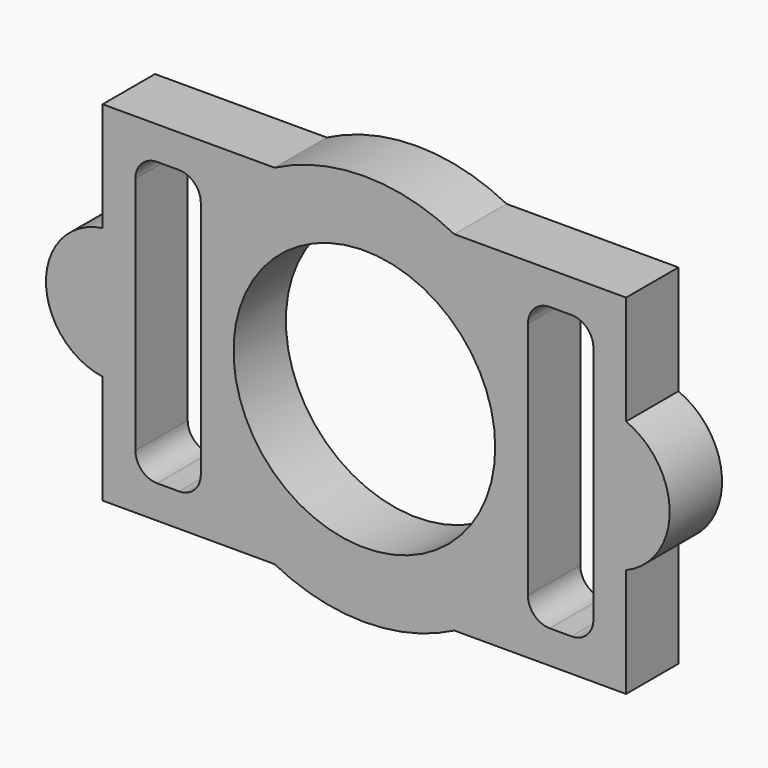
from build123d import *

# Parameters (mm, degrees)
F0_R     = 60
F1_DEPTH = 30


with BuildPart() as f1:
    # F0 (on Front) → F1 (new body)
    with BuildSketch(Plane.XZ):
        with BuildLine():
            Line((-23.376703, 94.018714), (-93.376703, 94.018714))
            Line((-93.376703, 94.018714), (-93.376703, 44.018714))
            ThreePointArc((-93.376703, 44.018714), (-119.373909, 14.018714), (-93.376703, -15.981286))
            Line((-93.376703, -15.981286), (-93.376703, -65.981286))
            Line((-93.376703, -65.981286), (-23.376703, -65.981286))
            Line((-23.376703, -65.981286), (-14.60776, -65.981286))
            ThreePointArc((-14.60776, -65.981286), (26.623297, -75.981286), (67.854353, -65.981286))
            Line((67.854353, -65.981286), (76.623297, -65.981286))
            Line((76.623297, -65.981286), (146.623297, -65.981286))
            Line((146.623297, -65.981286), (146.623297, -15.981286))
            ThreePointArc((146.623297, -15.981286), (166.623297, 14.018714), (146.623297, 44.018714))
            Line((146.623297, 44.018714), (146.623297, 94.018714))
            Line((146.623297, 94.018714), (76.623297, 94.018714))
            Line((76.623297, 94.018714), (67.854353, 94.018714))
            ThreePointArc((67.854353, 94.018714), (26.623297, 104.018714), (-14.60776, 94.018714))
            Line((-14.60776, 94.018714), (-23.376703, 94.018714))
        make_face()
        with BuildLine():
            ThreePointArc((-78.376703, 68.858823), (-75.447771, 75.92989), (-68.376703, 78.858823))
            Line((-68.376703, 78.858823), (-58.376703, 78.858823))
            ThreePointArc((-58.376703, 78.858823), (-51.305635, 75.92989), (-48.376703, 68.858823))
            Line((-48.376703, 68.858823), (-48.376703, -40.861128))
            ThreePointArc((-48.376703, -40.861128), (-51.305635, -47.932195), (-58.376703, -50.861128))
            Line((-58.376703, -50.861128), (-68.376703, -50.861128))
            ThreePointArc((-68.376703, -50.861128), (-75.447771, -47.932195), (-78.376703, -40.861128))
            Line((-78.376703, -40.861128), (-78.376703, 68.858823))
        make_face(mode=Mode.SUBTRACT)
        with BuildLine():
            ThreePointArc((101.623297, 68.858823), (104.552229, 75.92989), (111.623297, 78.858823))
            Line((111.623297, 78.858823), (121.623297, 78.858823))
            ThreePointArc((121.623297, 78.858823), (128.694365, 75.92989), (131.623297, 68.858823))
            Line((131.623297, 68.858823), (131.623297, -40.861128))
            ThreePointArc((131.623297, -40.861128), (128.694365, -47.932195), (121.623297, -50.861128))
            Line((121.623297, -50.861128), (111.623297, -50.861128))
            ThreePointArc((111.623297, -50.861128), (104.552229, -47.932195), (101.623297, -40.861128))
            Line((101.623297, -40.861128), (101.623297, 68.858823))
        make_face(mode=Mode.SUBTRACT)
        with Locations((26.623297, 14.018714)):
            Circle(F0_R, mode=Mode.SUBTRACT)
    extrude(amount=F1_DEPTH)


solid = f1.part
